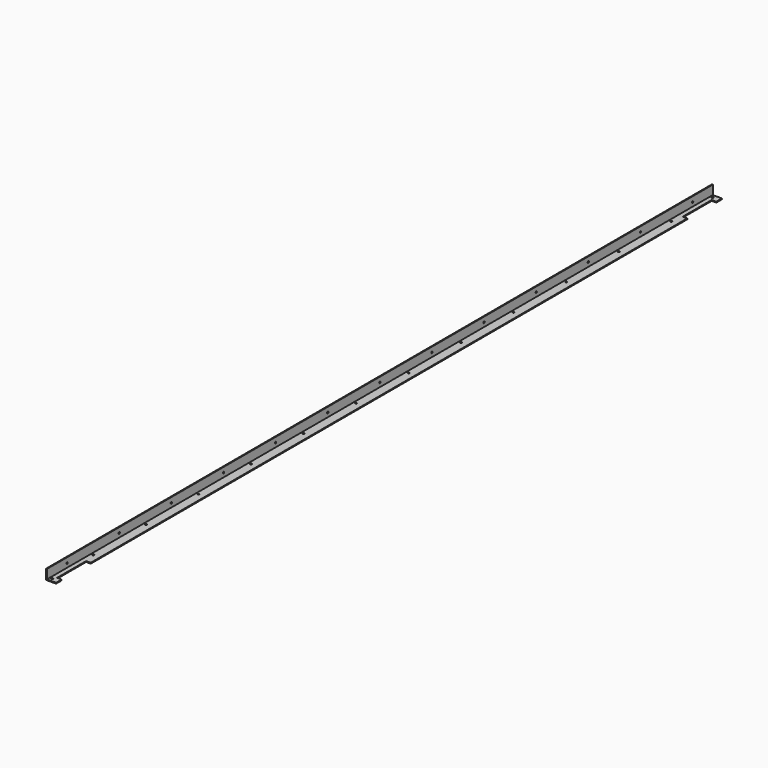
from build123d import *

# Parameters (mm, degrees)
F1_DEPTH  = 3175
F6_R      = 3.175
F8_W      = 17.4625
F8_H      = 138.1125
F8_R      = 3.282293
F9_DEPTH  = 25.4
F7_R      = 3.175
F10_DEPTH = 25.4


with BuildPart() as f1:
    # F0 (on Front) → F1 (new body)
    with BuildSketch(Plane.XZ):
        Polygon((0, 38.1), (0, 0), (38.1, 0), (38.1, 3.175), (3.175, 3.175), (3.175, 38.1), align=None)
    extrude(amount=-F1_DEPTH)

    # F6 (on Top) + F8 (on Top) → F9 (cut)
    with BuildSketch(Plane.XY):
        with Locations((12.7, 209.785697)):
            Circle(F6_R)
        with Locations((12.7, 460.279207)):
            Circle(F6_R)
        with Locations((12.7, 710.772716)):
            Circle(F6_R)
        with Locations((12.7, 961.266226)):
            Circle(F6_R)
        with Locations((12.7, 1211.759736)):
            Circle(F6_R)
        with Locations((12.7, 1462.253245)):
            Circle(F6_R)
        with Locations((12.7, 1712.746755)):
            Circle(F6_R)
        with Locations((12.7, 1963.240264)):
            Circle(F6_R)
        with Locations((12.7, 2213.733774)):
            Circle(F6_R)
        with Locations((12.7, 2464.227284)):
            Circle(F6_R)
        with Locations((12.7, 2714.720793)):
            Circle(F6_R)
        with Locations((12.7, 2965.214303)):
            Circle(F6_R)
    with BuildSketch(Plane.XY):
        with Locations((29.36875, 96.04375)):
            Rectangle(F8_W, F8_H)
        with Locations((12.7, 13.49375)):
            Circle(F8_R)
        with Locations((29.36875, 3078.95625)):
            Rectangle(F8_W, F8_H)
        with Locations((12.7, 3161.50625)):
            Circle(F8_R)
    extrude(amount=F9_DEPTH, mode=Mode.SUBTRACT)

    # F7 (on Right) → F10 (cut)
    with BuildSketch(Plane.YZ):
        with Locations((96.04375, 19.05)):
            Circle(F7_R)
        with Locations((344.619792, 19.05)):
            Circle(F7_R)
        with Locations((593.195833, 19.05)):
            Circle(F7_R)
        with Locations((841.771875, 19.05)):
            Circle(F7_R)
        with Locations((1090.347917, 19.05)):
            Circle(F7_R)
        with Locations((1338.923958, 19.05)):
            Circle(F7_R)
        with Locations((1587.5, 19.05)):
            Circle(F7_R)
        with Locations((1836.076042, 19.05)):
            Circle(F7_R)
        with Locations((2084.652083, 19.05)):
            Circle(F7_R)
        with Locations((2333.228125, 19.05)):
            Circle(F7_R)
        with Locations((2581.804167, 19.05)):
            Circle(F7_R)
        with Locations((2830.380208, 19.05)):
            Circle(F7_R)
        with Locations((3078.95625, 19.05)):
            Circle(F7_R)
    extrude(amount=F10_DEPTH, mode=Mode.SUBTRACT)


solid = f1.part
